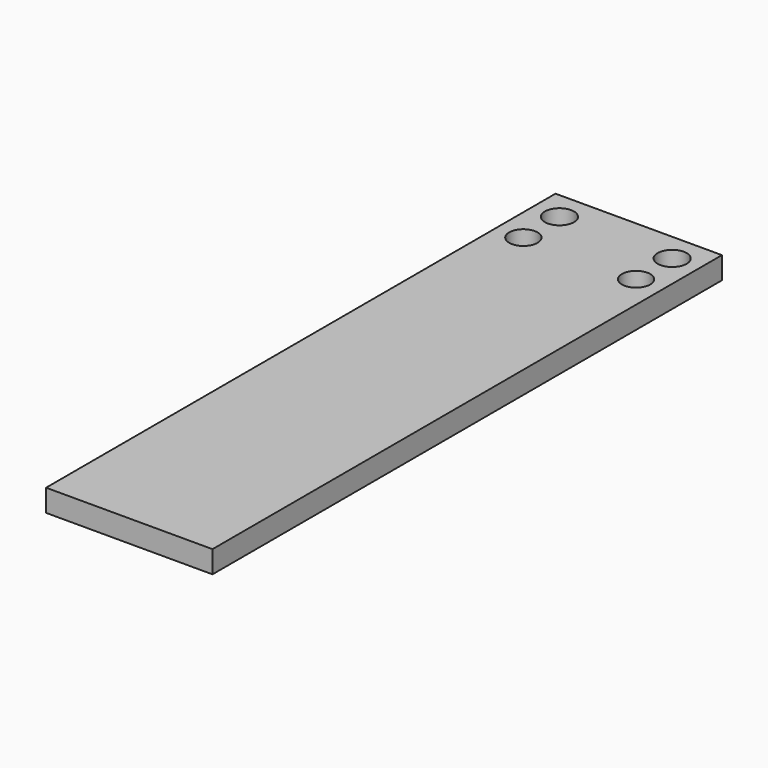
from build123d import *

# Parameters (mm, degrees)
F0_W     = 75
F0_H     = 287
F0_R     = 6.4
F0_R_2   = 6.55
F1_DEPTH = 10


with BuildPart() as f1:
    # F0 (on Top) → F1 (new body)
    with BuildSketch(Plane.XY):
        Rectangle(F0_W, F0_H)
        with Locations((-25.4, 110.27)):
            Circle(F0_R, mode=Mode.SUBTRACT)
        with Locations((-25.4, 130.59)):
            Circle(F0_R_2, mode=Mode.SUBTRACT)
        with Locations((25.4, 110.27)):
            Circle(F0_R, mode=Mode.SUBTRACT)
        with Locations((25.4, 130.59)):
            Circle(F0_R_2, mode=Mode.SUBTRACT)
    extrude(amount=F1_DEPTH)


solid = f1.part
